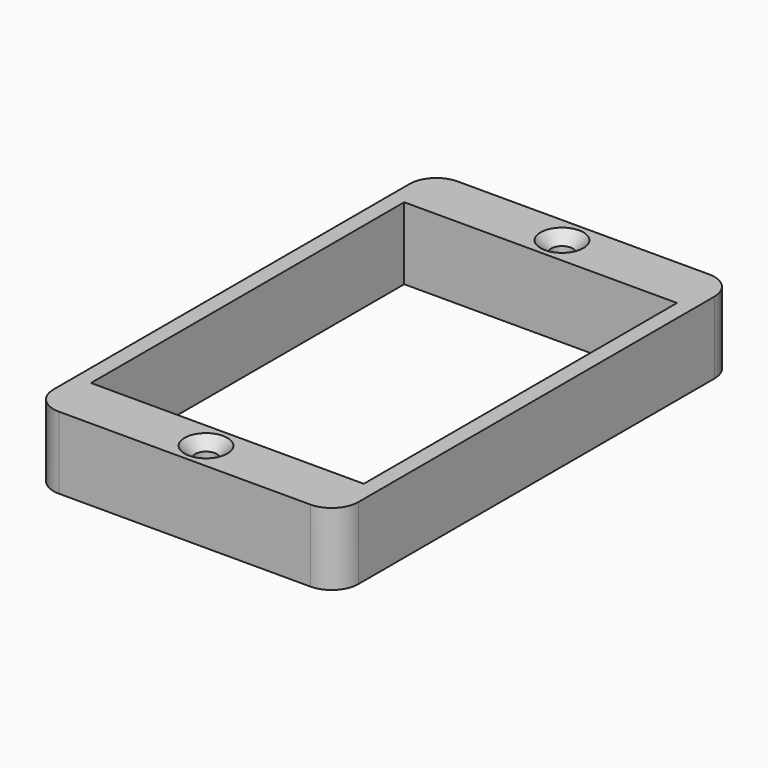
from build123d import *

# Parameters (mm, degrees)
F0_R     = 2
F0_W     = 51
F0_H     = 73.2
F1_DEPTH = 13.5
F2_R     = 5
F3_SIZE  = 2


with BuildPart() as f1:
    # F0 (on Top) → F1 (new body)
    with BuildSketch(Plane.XY):
        Polygon((28.5, -5), (28.5, 5), (-28.5, 5), (-28.5, -5), (-28.5, -78.2), (-28.5, -88.2), (28.5, -88.2), (28.5, -78.2), align=None)
        with Locations((0, -83.2)):
            Circle(F0_R, mode=Mode.SUBTRACT)
        with Locations((0, -41.6)):
            Rectangle(F0_W, F0_H, mode=Mode.SUBTRACT)
        Circle(F0_R, mode=Mode.SUBTRACT)
    extrude(amount=F1_DEPTH)

    # F2
    f2_edges = [f1.edges().sort_by_distance(p)[0] for p in [
        (-28.5, 5, 6.75),
        (28.5, 5, 6.75),
        (-28.5, -88.2, 6.75),
        (28.5, -88.2, 6.75),
    ]]
    fillet(f2_edges, radius=F2_R)

    # F3
    f3_edges = [f1.edges().sort_by_distance(p)[0] for p in [
        (-2, 0, 13.5),
        (-2, -83.2, 13.5),
    ]]
    chamfer(f3_edges, length=F3_SIZE)


solid = f1.part
